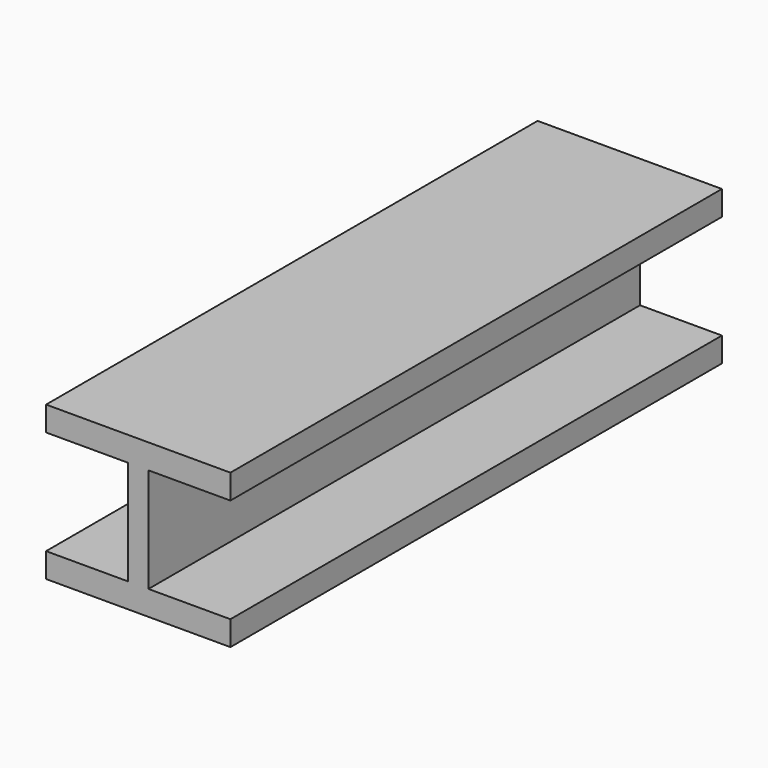
from build123d import *

# Parameters (mm, degrees)
PAD_DEPTH = 300


with BuildPart() as part:
    # Sketch → Pad (new body)
    with BuildSketch(Plane.XZ):
        Polygon((0, 75), (90, 75), (90, 63), (50, 63), (50, 12), (90, 12), (90, 0), (0, 0), (0, 12), (40, 12), (40, 63), (0, 63), align=None)
    extrude(amount=PAD_DEPTH)


solid = part.part
